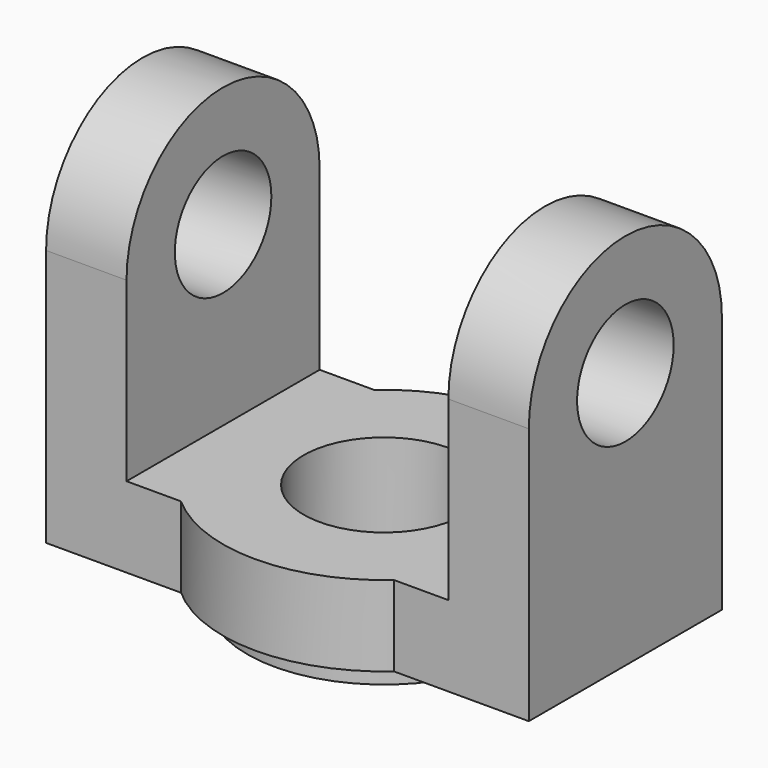
from build123d import *

# Parameters (mm, degrees)
F0_W      = 60
F0_H      = 47.5
F1_DEPTH  = 40
F2_W      = 40
F2_H      = 37.5
F3_DEPTH  = 40
F4_R      = 17
F5_DEPTH  = 3
F8_DEPTH  = 60.001
F9_R      = 7.5
F10_DEPTH = 60.001
F11_R     = 10
F12_DEPTH = 47.001
F14_R     = 10
F15_DEPTH = 25
F16_DEPTH = 10


with BuildPart() as f1:
    # F0 (on Front) → F1 (new body)
    with BuildSketch(Plane.XZ):
        with Locations((30, 23.75)):
            Rectangle(F0_W, F0_H)
    extrude(amount=F1_DEPTH)

    # F2 (on Front) → F3 (cut)
    with BuildSketch(Plane.XZ):
        with Locations((30, 28.75)):
            Rectangle(F2_W, F2_H)
    extrude(amount=F3_DEPTH, mode=Mode.SUBTRACT)

    # F4 (on face) → F5 (join)
    with BuildSketch(Plane(origin=(0, 0, 0), x_dir=(1, 0, 0), z_dir=(0, 0, -1))):
        with Locations((30, 20)):
            Circle(F4_R)
    extrude(amount=F5_DEPTH)

    # F7 (on face) → F8 (cut, through all)
    with BuildSketch(Plane.YZ.offset(60)):
        with BuildLine():
            Line((-40, 0), (-35, 0))
            Line((-35, 0), (-35, 32))
            ThreePointArc((-35, 32), (-20, 47), (-5, 32))
            Line((-5, 32), (-5, 0))
            Line((-5, 0), (0, 0))
            Line((0, 0), (0, 47.5))
            Line((0, 47.5), (-19.665197, 47.5))
            Line((-19.665197, 47.5), (-40, 47.5))
            Line((-40, 47.5), (-40, 0))
        make_face()
    extrude(amount=-F8_DEPTH, mode=Mode.SUBTRACT)

    # F9 (on face) → F10 (cut, through all)
    with BuildSketch(Plane.YZ.offset(60)):
        with Locations((-20, 32)):
            Circle(F9_R)
    extrude(amount=-F10_DEPTH, mode=Mode.SUBTRACT)

    # F11 (on Top) → F12 (cut, through all)
    with BuildSketch(Plane.XY):
        with Locations((30, -20)):
            Circle(F11_R)
    extrude(amount=F12_DEPTH, mode=Mode.SUBTRACT)

    # F14 (on face) → F15 (cut)
    with BuildSketch(Plane(origin=(0, 0, -3), x_dir=(1, 0, 0), z_dir=(0, 0, -1))):
        with Locations((30, 20)):
            Circle(F14_R)
    extrude(amount=-F15_DEPTH, mode=Mode.SUBTRACT)

    # F13 (on face) → F16 (join)
    with BuildSketch(Plane.XY.offset(10)):
        with BuildLine():
            Line((16.771243, -5), (43.228757, -5))
            ThreePointArc((43.228757, -5), (30, 0), (16.771243, -5))
        make_face()
        with BuildLine():
            Line((43.228757, -35), (16.771243, -35))
            ThreePointArc((16.771243, -35), (30, -40), (43.228757, -35))
        make_face()
    extrude(amount=-F16_DEPTH)


solid = f1.part
